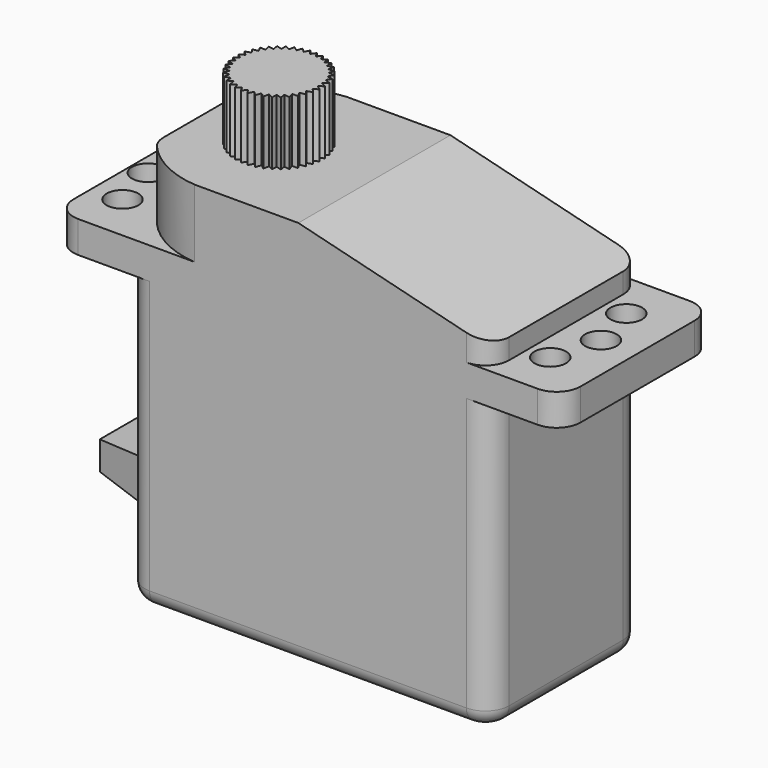
from build123d import *

# Parameters (mm, degrees)
F2_DEPTH  = 6
F4_R      = 1
F5_DEPTH  = 2
F7_DEPTH  = 4.3
F8_R      = 2.75
F9_DEPTH  = 4
F10_R     = 7.75
F11_DEPTH = 4
F14_W     = 3.6
F14_H     = 1.8
F12_W     = 6
F12_H     = 3
F16_R     = 1.5
F17_R     = 1


with BuildPart() as f2:
    # F1 (on Front) → F2 (new body, symmetric)
    with BuildSketch(Plane.XZ):
        Polygon((-10.8929648995, 4.1004477039), (-10.8929648995, -14.0995522961), (12.1070351005, -14.0995522961), (12.1070351005, 4.1004477039), (16.6070351005, 4.1004477039), (16.6070351005, 6.1004477039), (12.1070351005, 6.1004477039), (12.1070351005, 7.3818248219), (0, 10.4004477039), (-10.8929648995, 10.4004477039), (-10.8929648995, 6.1004477039), (-15.3929648995, 6.1004477039), (-15.3929648995, 4.1004477039), align=None)
    extrude(amount=F2_DEPTH, both=True)

    # F4 (on offset) → F5 (cut, through all)
    with BuildSketch(Plane.XY.offset(6.1004477039)):
        with Locations((-13.5, 3)):
            Circle(F4_R)
        with Locations((-13.5, -3)):
            Circle(F4_R)
        with Locations((13.5, 3)):
            Circle(F4_R)
        with Locations((13.5, -3)):
            Circle(F4_R)
        with Locations((-14.3, 0)):
            Circle(F4_R)
        with Locations((14.3, 0)):
            Circle(F4_R)
    extrude(amount=-F5_DEPTH, mode=Mode.SUBTRACT)

    # F6 (on face) → F7 (cut, through all)
    with BuildSketch(Plane.XY.offset(10.4004477039)):
        with BuildLine():
            ThreePointArc((-10.8929648995, 3.544917937), (-8.9887550703, 5.242725125), (-6.5525491912, 6))
            Line((-6.5525491912, 6), (-10.8929648995, 6))
            Line((-10.8929648995, 6), (-10.8929648995, 3.544917937))
        make_face()
        with BuildLine():
            Line((-10.8929648995, -6), (-6.5525491912, -6))
            ThreePointArc((-6.5525491912, -6), (-8.9887550703, -5.242725125), (-10.8929648995, -3.544917937))
            Line((-10.8929648995, -3.544917937), (-10.8929648995, -6))
        make_face()
    extrude(amount=-F7_DEPTH, mode=Mode.SUBTRACT)

    # F14 (on offset) → F15 section 0
    with BuildSketch(Plane(origin=(-15.8929648995, 0, 0), x_dir=(0, -1, 0), z_dir=(-1, 0, 0))):
        with Locations((0, -9.3995522961)):
            Rectangle(F14_W, F14_H)
    # F12 (on face) → F15 section 1
    with BuildSketch(Plane(origin=(-10.8929648995, 0, 0), x_dir=(0, -1, 0), z_dir=(-1, 0, 0))):
        with Locations((0, -9.3995522961)):
            Rectangle(F12_W, F12_H)
    loft()

    # F16
    f16_edges = [f2.edges().sort_by_distance(p)[0] for p in [
        (-15.392965, -6, 5.100448),
        (-15.392965, 6, 5.100448),
        (-10.892965, -3.544918, 8.250448),
        (-10.892965, 3.544918, 8.250448),
        (16.607035, -6, 5.100448),
        (16.607035, 6, 5.100448),
        (12.107035, -6, -4.999552),
        (12.107035, -6, 6.741136),
        (12.107035, 6, 6.741136),
        (12.107035, 6, -4.999552),
        (-10.892965, 6, -4.999552),
        (-10.892965, -6, -4.999552),
    ]]
    fillet(f16_edges, radius=F16_R)

    # F17
    f17_edges = [f2.edges().sort_by_distance(p)[0] for p in [
        (-10.892965, 0, -14.099552),
        (-10.453625, 5.56066, -14.099552),
        (-10.453625, -5.56066, -14.099552),
        (0.607035, 6, -14.099552),
        (0.607035, -6, -14.099552),
        (11.667695, 5.56066, -14.099552),
        (11.667695, -5.56066, -14.099552),
        (12.107035, 0, -14.099552),
    ]]
    fillet(f17_edges, radius=F17_R)


with BuildPart() as f9:
    # F8 (on face) → F9 (new body)
    with BuildSketch(Plane.XY.offset(10.4004477039)):
        with Locations((-6.0232970864, 0)):
            Circle(F8_R)
    extrude(amount=F9_DEPTH)

    # F10 (on face) → F11 (cut, through all)
    with BuildSketch(Plane.XY.offset(14.4004477039)):
        with Locations((-6.0232970864, 0)):
            Circle(F10_R)
        Polygon((-6.4065615257, 2.4198364345), (-6.2390595996, 2.7415226678), (-6.0232970864, 2.45), (-5.8075345731, 2.7415226678), (-5.640032647, 2.4198364345), (-5.3813223358, 2.6740172811), (-5.2662054501, 2.3300884649), (-4.9709176474, 2.5406687144), (-4.911020362, 2.1829659843), (-4.5864260334, 2.344760452), (-4.5832232182, 1.9820916362), (-4.2373149535, 2.0911164054), (-4.2908854725, 1.7324116139), (-3.932180681, 1.7859821329), (-4.0412054501, 1.4400738681), (-3.6785366344, 1.436871053), (-3.8403311021, 1.1122767244), (-3.482628372, 1.052379439), (-3.6932086214, 0.7570916362), (-3.3492798053, 0.6419747506), (-3.6034606519, 0.3832644393), (-3.2817744186, 0.2157625133), (-3.5732970864, 0), (-3.2817744186, -0.2157625133), (-3.6034606519, -0.3832644393), (-3.3492798053, -0.6419747506), (-3.6932086214, -0.7570916362), (-3.482628372, -1.052379439), (-3.8403311021, -1.1122767244), (-3.6785366344, -1.436871053), (-4.0412054501, -1.4400738681), (-3.932180681, -1.7859821329), (-4.2908854725, -1.7324116139), (-4.2373149535, -2.0911164054), (-4.5832232182, -1.9820916362), (-4.5864260334, -2.344760452), (-4.911020362, -2.1829659843), (-4.9709176474, -2.5406687144), (-5.2662054501, -2.3300884649), (-5.3813223358, -2.6740172811), (-5.640032647, -2.4198364345), (-5.8075345731, -2.7415226678), (-6.0232970864, -2.45), (-6.2390595996, -2.7415226678), (-6.4065615257, -2.4198364345), (-6.665271837, -2.6740172811), (-6.7803887226, -2.3300884649), (-7.0756765254, -2.5406687144), (-7.1355738107, -2.1829659843), (-7.4601681393, -2.344760452), (-7.4633709545, -1.9820916362), (-7.8092792193, -2.0911164054), (-7.7557087003, -1.7324116139), (-8.1144134918, -1.7859821329), (-8.0053887226, -1.4400738681), (-8.3680575383, -1.436871053), (-8.2062630706, -1.1122767244), (-8.5639658008, -1.052379439), (-8.3533855513, -0.7570916362), (-8.6973143675, -0.6419747506), (-8.4431335208, -0.3832644393), (-8.7648197541, -0.2157625133), (-8.4732970864, 0), (-8.7648197541, 0.2157625133), (-8.4431335208, 0.3832644393), (-8.6973143675, 0.6419747506), (-8.3533855513, 0.7570916362), (-8.5639658008, 1.052379439), (-8.2062630706, 1.1122767244), (-8.3680575383, 1.436871053), (-8.0053887226, 1.4400738681), (-8.1144134918, 1.7859821329), (-7.7557087003, 1.7324116139), (-7.8092792193, 2.0911164054), (-7.4633709545, 1.9820916362), (-7.4601681393, 2.344760452), (-7.1355738107, 2.1829659843), (-7.0756765254, 2.5406687144), (-6.7803887226, 2.3300884649), (-6.665271837, 2.6740172811), align=None, mode=Mode.SUBTRACT)
    extrude(amount=-F11_DEPTH, mode=Mode.SUBTRACT)


solid = Compound([f2.part, f9.part])
